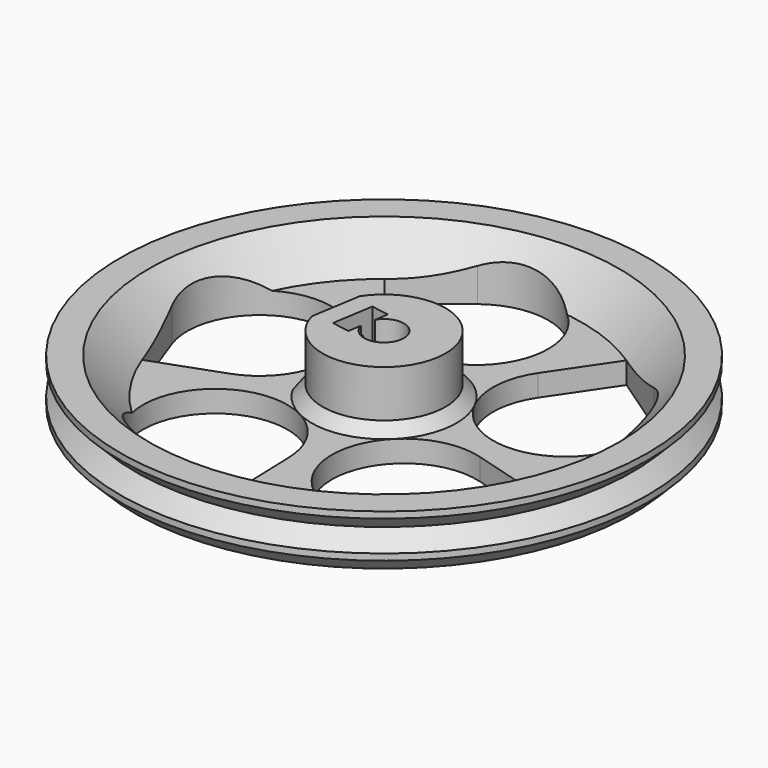
from build123d import *

# Parameters (mm, degrees)
PAD_DEPTH              = 2.5
CYLINDER001_R          = 1.75
CYLINDER001_DEPTH      = 10
CYLINDER001_ROLL_ANGLE = 90
BOX_W                  = 6
BOX_H                  = 3
BOX_DEPTH              = 7.5
SKETCH003_R            = 2.75
PAD001_DEPTH           = 8
CHAMFER_SIZE           = 1.5
POCKET_DEPTH           = 218.644926
POLARPATTERN_COUNT     = 5


with BuildPart() as captive_nut:
    # Sketch002 → Pad (new body)
    with BuildSketch(Plane.XZ):
        Polygon((-2.875, 5), (2.875, 5), (2.875, -1.659882), (0, -3.319764), (-2.875, -1.659882), align=None)
    extrude(amount=PAD_DEPTH)


with BuildPart() as captive_nut_1:
    # Clone placement: moved
    add(captive_nut.part.moved(Location((0, -3.75, 2))))


with BuildPart() as captive_nut_screw_fusion:
    # Cylinder001 → Cylinder001 (new body)
    with BuildSketch(Plane.XY):
        Circle(CYLINDER001_R)
    extrude(amount=CYLINDER001_DEPTH)


with BuildPart() as captive_nut_screw_fusion_1:
    # Cylinder001 roll: moved
    add(captive_nut_screw_fusion.part.rotate(Axis((0, 0, 0), (1, 0, 0)), CYLINDER001_ROLL_ANGLE))


with BuildPart() as captive_nut_screw_fusion_2:
    # Cylinder001 placement: moved
    add(captive_nut_screw_fusion_1.part.moved(Location((0, 0, 2))))

    # Fusion: union captive-nut
    add(captive_nut_1.part)


with BuildPart() as captive_nut_screw_fusion_3:
    # Fusion placement: moved
    add(captive_nut_screw_fusion_2.part.moved(Location((0, 1.2, 0))))


with BuildPart() as shaft_recess_cube:
    # Box → Box (new body)
    with BuildSketch(Plane(origin=(-3, 1.625, -3), x_dir=(1, 0, 0), z_dir=(0, 0, 1))):
        with Locations((3, 1.5)):
            Rectangle(BOX_W, BOX_H)
    extrude(amount=BOX_DEPTH)


with BuildPart() as polarpattern:
    # Sketch → Revolution (revolve)
    with BuildSketch(Plane.XZ):
        Polygon((0, -2), (27.5, -2), (32.5, 3), (36.5, 3), (36.5, 2.12132), (34.37868, 0), (36.5, -2.12132), (36.5, -3), (34.5, -5), (0, -5), align=None)
    revolve(axis=Axis((0, 0, 0), (0, 0, 1)))

    # Sketch003 → Pad001 (new body)
    with BuildSketch(Plane(origin=(0, 0, -2), x_dir=(-1, 0, 0), z_dir=(0, 0, 1))):
        with BuildLine():
            ThreePointArc((-3.49106, 7.75), (0, -8.5), (3.49106, 7.75))
            Line((3.49106, 7.75), (-3.49106, 7.75))
        make_face()
        Circle(SKETCH003_R, mode=Mode.SUBTRACT)
    extrude(amount=PAD001_DEPTH)

    # Fusion001: union shaft-recess-cube
    add(shaft_recess_cube.part)

    # Cut: cut captive-nut-screw-fusion
    add(captive_nut_screw_fusion_3.part, mode=Mode.SUBTRACT)

    # Chamfer
    chamfer_edges = [polarpattern.edges().sort_by_distance(p)[0] for p in [
        (0, 8.5, -2),
    ]]
    chamfer(chamfer_edges, length=CHAMFER_SIZE)

    # Sketch004 → Pocket (cut, through all)
    with BuildSketch(Plane(origin=(0, 0, -5), x_dir=(1, 0, 0), z_dir=(0, 0, -1))):
        with BuildLine():
            ThreePointArc((-8.749102, 15.157148), (9.610963, 17.237864), (-4.842852, 28.749102))
            Line((-13.591954, 23.90625), (-4.842852, 28.749102))
            Line((-8.749102, 15.157148), (-13.591954, 23.90625))
        make_face()
    pocket = extrude(amount=-POCKET_DEPTH, mode=Mode.SUBTRACT)

    # PolarPattern: Pocket ×5 about axis
    polarpattern_axis = Axis((0, 0, -5), (0, 0, -1))
    for i in range(1, POLARPATTERN_COUNT):
        add(pocket.rotate(polarpattern_axis, i * 360 / POLARPATTERN_COUNT), mode=Mode.SUBTRACT)


with BuildPart() as wheel_l:
    # mirror: instance of PolarPattern
    add(polarpattern.part.mirror(Plane(origin=(0, 0, 0), x_dir=(-0.760991, -0.648762, 0), z_dir=(0.648762, -0.760991, 0))))


solid = wheel_l.part
